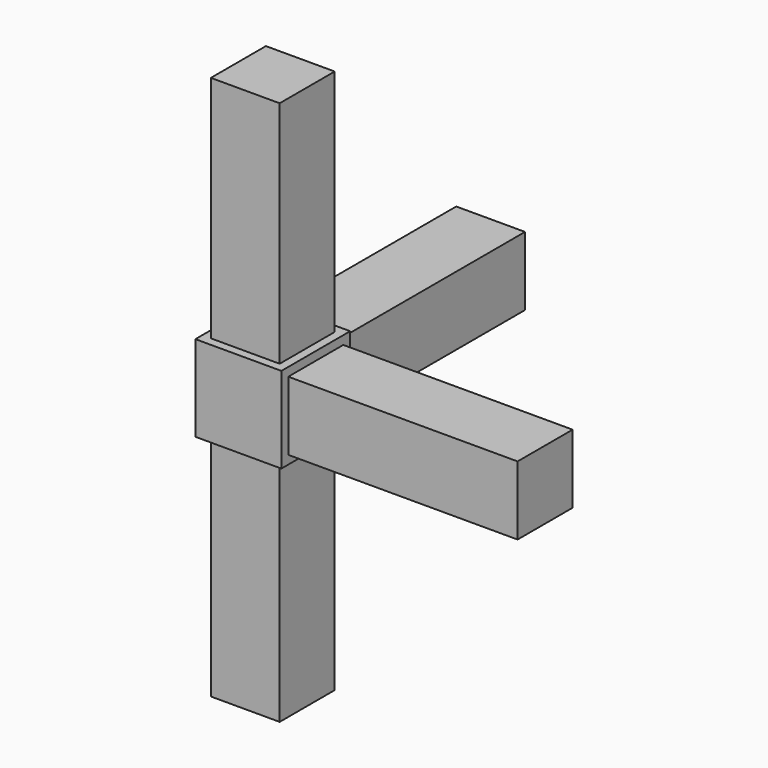
from build123d import *

# Parameters (mm, degrees)
SKETCH_W     = 15
SKETCH_H     = 15
PAD_DEPTH    = 15
SKETCH001_W  = 12
SKETCH001_H  = 12
PAD001_DEPTH = 40
SKETCH003_W  = 12
SKETCH003_H  = 12
PAD003_DEPTH = 40
SKETCH002_W  = 12
SKETCH002_H  = 12
PAD002_DEPTH = 40
SKETCH004_W  = 12
SKETCH004_H  = 12
PAD004_DEPTH = 40


with BuildPart() as pad001:
    # Sketch → Pad (new body)
    with BuildSketch(Plane.XY):
        Rectangle(SKETCH_W, SKETCH_H)
    extrude(amount=PAD_DEPTH)

    # Sketch001 → Pad001 (new body)
    with BuildSketch(Plane.XY.offset(15)):
        Rectangle(SKETCH001_W, SKETCH001_H)
    extrude(amount=PAD001_DEPTH)


with BuildPart() as pad003:
    # Pad003 base: copy of Pad001
    add(pad001.part)

    # Sketch003 → Pad003 (new body)
    with BuildSketch(Plane(origin=(0, 0, 0), x_dir=(1, 0, 0), z_dir=(0, 0, -1))):
        Rectangle(SKETCH003_W, SKETCH003_H)
    extrude(amount=PAD003_DEPTH)


with BuildPart() as fusion:
    # Pad002 base: copy of Pad001
    add(pad001.part)

    # Sketch002 → Pad002 (new body)
    with BuildSketch(Plane(origin=(0, 7.5, 0), x_dir=(-1, 0, 0), z_dir=(0, 1, 0))):
        with Locations((0, 7.5)):
            Rectangle(SKETCH002_W, SKETCH002_H)
    extrude(amount=PAD002_DEPTH)

    # Sketch004 → Pad004 (new body)
    with BuildSketch(Plane.YZ.offset(7.5)):
        with Locations((0, 7.5)):
            Rectangle(SKETCH004_W, SKETCH004_H)
    extrude(amount=PAD004_DEPTH)

    # Fusion: union Pad003
    add(pad003.part)


solid = fusion.part
